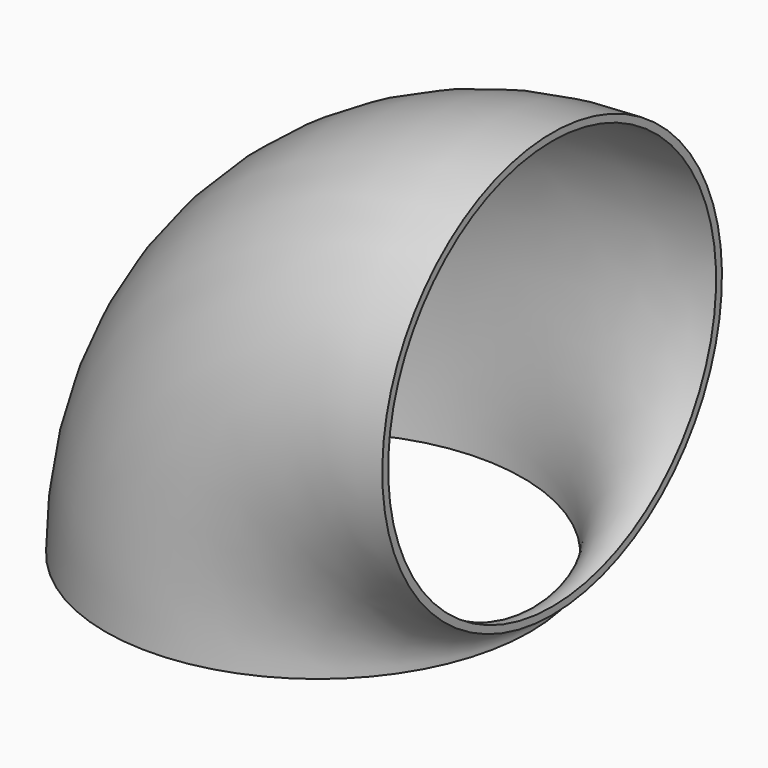
from build123d import *

# Parameters (mm, degrees)
F1_R   = 72.5
F1_R_2 = 70


with BuildPart() as f2:
    # F2: sweep along a path in F0
    with BuildLine(Plane.XZ) as f2_path:
        ThreePointArc((0, 80), (-56.5685424949, 56.5685424949), (-80, 0))
    # F1 (on Top) → F2 (sweep)
    with BuildSketch(Plane.XY):
        with Locations((-80, 0)):
            Circle(F1_R)
        with Locations((-80, 0)):
            Circle(F1_R_2, mode=Mode.SUBTRACT)
    sweep(path=f2_path.line)


solid = f2.part
